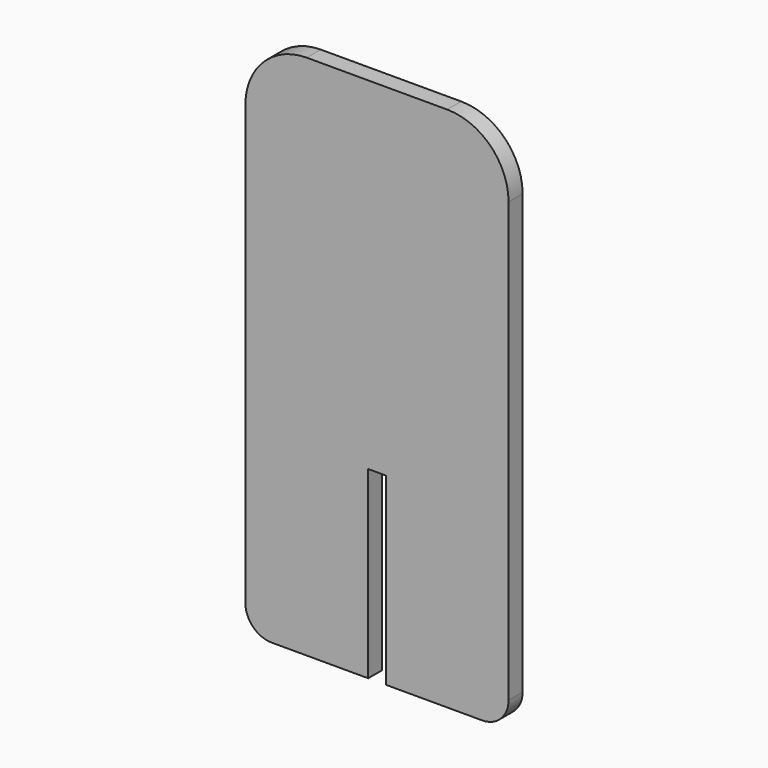
from build123d import *

# Parameters (mm, degrees)
F1_DEPTH = 3.175


with BuildPart() as f1:
    # F0 (on Front) → F1 (new body, symmetric)
    with BuildSketch(Plane.XZ):
        with BuildLine():
            Line((25.4, 82.371496), (-25.4, 82.371496))
            ThreePointArc((-25.4, 82.371496), (-41.115448, 75.861944), (-47.625, 60.146496))
            Line((-47.625, 60.146496), (-47.625, -98.603504))
            ThreePointArc((-47.625, -98.603504), (-44.835192, -105.338696), (-38.1, -108.128504))
            Line((-38.1, -108.128504), (-3.175, -108.128504))
            Line((-3.175, -108.128504), (-3.175, -41.453504))
            Line((-3.175, -41.453504), (0, -41.453504))
            Line((0, -41.453504), (3.175, -41.453504))
            Line((3.175, -41.453504), (3.175, -108.128504))
            Line((3.175, -108.128504), (38.1, -108.128504))
            ThreePointArc((38.1, -108.128504), (44.835192, -105.338696), (47.625, -98.603504))
            Line((47.625, -98.603504), (47.625, 60.146496))
            ThreePointArc((47.625, 60.146496), (41.115448, 75.861944), (25.4, 82.371496))
        make_face()
    extrude(amount=F1_DEPTH, both=True)


solid = f1.part
